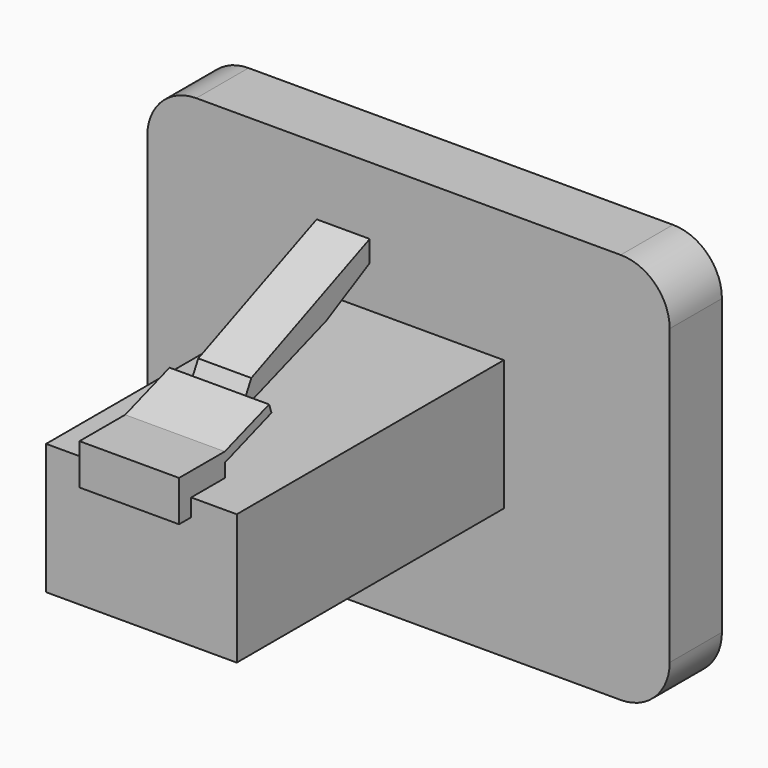
from build123d import *

# Parameters (mm, degrees)
F0_W          = 21.45
F0_H          = 8
F1_DEPTH      = 5.84
F1_DEPTH_BACK = 5.84
F3_DEPTH      = 3.05
F3_DEPTH_BACK = 3.05
F4_DEPTH      = 1.625
F4_DEPTH_BACK = 1.625
F5_W          = 4
F5_H          = 24
F6_DEPTH      = 16
F6_DEPTH_BACK = 16
F8_R          = 2.5
F9_DEPTH      = 3
F10_DEPTH     = 5
F11_R         = 3


with BuildPart() as f1:
    # F0 (on Right) → F1 (new body, two sides)
    with BuildSketch(Plane.YZ) as f1_sk:
        with Locations((10.725, -4)):
            Rectangle(F0_W, F0_H)
    extrude(amount=F1_DEPTH)
    extrude(f1_sk.sketch, amount=-F1_DEPTH_BACK)

    # F2 (on Right) → F3 (join, two sides)
    with BuildSketch(Plane.YZ) as f3_sk:
        Polygon((-0.93, -1.069501), (0, -1.069501), (0, 0), (2.57, 0), (2.57, 0.825999), (6.145543, 2.064358), (5.964502, 2.593), (2.57, 1.430499), (-0.93, 1.430499), align=None)
    extrude(amount=F3_DEPTH)
    extrude(f3_sk.sketch, amount=-F3_DEPTH_BACK)

    # F2 (on Right) → F4 (join, two sides)
    with BuildSketch(Plane.YZ) as f4_sk:
        Polygon((6.383002, 3.3835), (5.964502, 2.593), (6.145543, 2.064358), (12.102503, 4.1275), (15.450504, 5.894501), (15.450504, 7.196501), align=None)
    extrude(amount=F4_DEPTH)
    extrude(f4_sk.sketch, amount=-F4_DEPTH_BACK)


with BuildPart() as f6:
    # F5 (on Right) → F6 (new body, two sides)
    with BuildSketch(Plane.YZ) as f6_sk:
        with Locations((22.45, -4)):
            Rectangle(F5_W, F5_H)
    extrude(amount=F6_DEPTH)
    extrude(f6_sk.sketch, amount=-F6_DEPTH_BACK)

    # F7: cut F1
    add(f1.part, mode=Mode.SUBTRACT)

    # F8 (on face) → F9 (cut)
    with BuildSketch(Plane(origin=(0, 24.45, 0), x_dir=(-1, 0, 0), z_dir=(0, 1, 0))):
        with Locations((-12, -4)):
            Circle(F8_R)
        with Locations((12, -4)):
            Circle(F8_R)
    extrude(amount=-F9_DEPTH, mode=Mode.SUBTRACT)

    # F8 (on face) → F10 (join)
    with BuildSketch(Plane(origin=(0, 24.45, 0), x_dir=(-1, 0, 0), z_dir=(0, 1, 0))):
        with Locations((0, -4)):
            Circle(F8_R)
    extrude(amount=F10_DEPTH)

    # F11
    f11_edges = [f6.edges().sort_by_distance(p)[0] for p in [
        (-16, 22.45, 8),
        (-16, 22.45, -16),
        (16, 22.45, -16),
        (16, 22.45, 8),
    ]]
    fillet(f11_edges, radius=F11_R)


solid = Compound([f1.part, f6.part])
